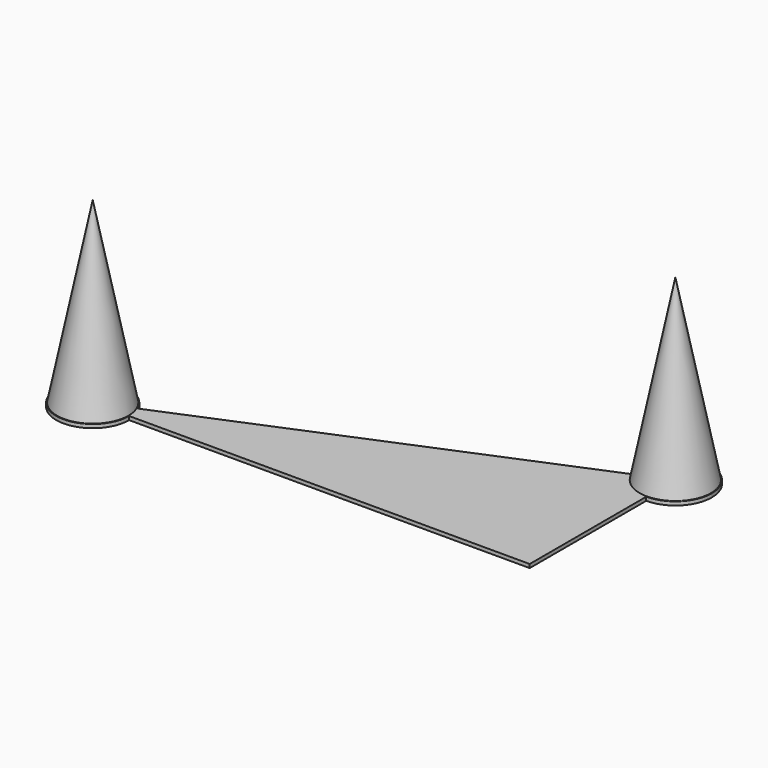
from build123d import *

# Parameters (mm, degrees)
F6_DEPTH = 1


with BuildPart() as f2:
    # F1 (on Front) → F2 (revolve)
    with BuildSketch(Plane.XZ):
        Polygon((-130, 0), (-120, 0), (-120, 50), align=None)
    revolve(axis=Axis((-120, 0, 25), (0, 0, 1)))


with BuildPart() as f5:
    # F4 (on offset) → F5 (revolve)
    with BuildSketch(Plane.XZ.offset(-50)):
        Polygon((0, 50), (0, 0), (10, 0), align=None)
    revolve(axis=Axis((0, 50, 25), (0, 0, 1)))


with BuildPart() as f6:
    # F0 (on Top) → F6 (new body)
    with BuildSketch(Plane.XY):
        with BuildLine():
            ThreePointArc((-110.769231, 3.846154), (-129.805807, -1.961161), (-110, 0))
            Line((-110, 0), (-120, 0))
            Line((-120, 0), (-110.769231, 3.846154))
        make_face()
        with BuildLine():
            Line((-110, 0), (0, 0))
            Line((0, 0), (0, 40))
            ThreePointArc((0, 40), (-5.547002, 41.679497), (-9.230769, 46.153846))
            Line((-9.230769, 46.153846), (-110.769231, 3.846154))
            ThreePointArc((-110.769231, 3.846154), (-110.194193, 1.961161), (-110, 0))
        make_face()
        with BuildLine():
            Line((0, 50), (0, 40))
            ThreePointArc((0, 40), (7.071068, 42.928932), (10, 50))
            ThreePointArc((10, 50), (-1.961161, 59.805807), (-9.230769, 46.153846))
            Line((-9.230769, 46.153846), (0, 50))
        make_face()
        with BuildLine():
            Line((-120, 0), (-110, 0))
            ThreePointArc((-110, 0), (-110.194193, 1.961161), (-110.769231, 3.846154))
            Line((-110.769231, 3.846154), (-120, 0))
        make_face()
        with BuildLine():
            ThreePointArc((-9.230769, 46.153846), (-5.547002, 41.679497), (0, 40))
            Line((0, 40), (0, 50))
            Line((0, 50), (-9.230769, 46.153846))
        make_face()
    extrude(amount=F6_DEPTH)


solid = Compound([f2.part, f5.part, f6.part])
